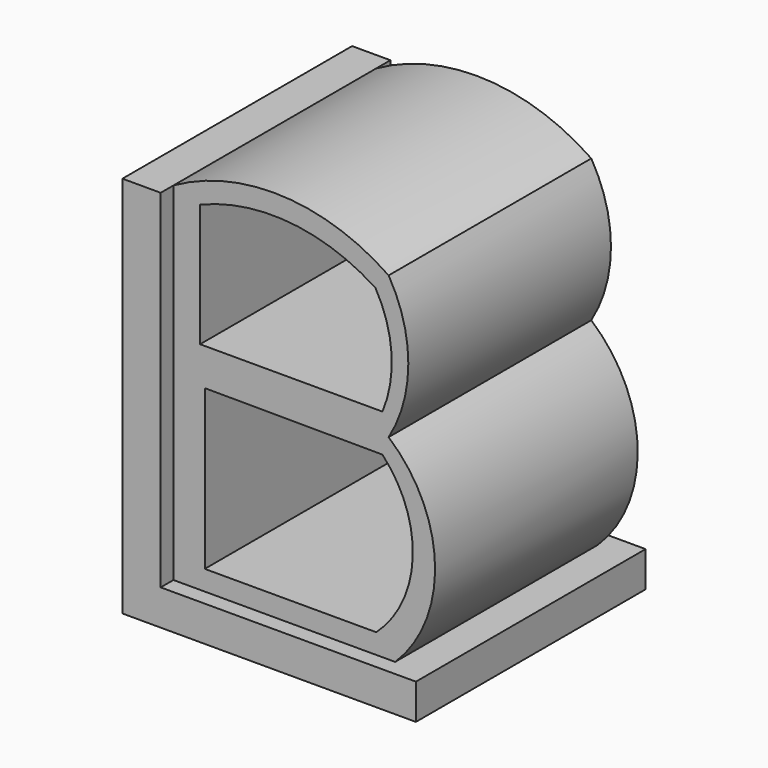
from build123d import *

# Parameters (mm, degrees)
F0_W     = 114.3
F0_H     = 152.4
F1_DEPTH = 15.24
F2_W     = 101.6
F2_H     = 14.1132464528
F3_DEPTH = 57.15
F4_DEPTH = 57.15
F6_DEPTH = 50.8
F7_DEPTH = 100.838


with BuildPart() as f1:
    # F0 (on Right) → F1 (new body)
    with BuildSketch(Plane.YZ):
        Rectangle(F0_W, F0_H)
    extrude(amount=F1_DEPTH)

    # F2 (on Front) → F3 (join)
    with BuildSketch(Plane.XZ):
        with Locations((66.04, -69.1433767736)):
            Rectangle(F2_W, F2_H)
    extrude(amount=F3_DEPTH)

    # F2 (on Front) → F4 (join)
    with BuildSketch(Plane.XZ):
        with Locations((66.04, -69.1433767736)):
            Rectangle(F2_W, F2_H)
    extrude(amount=-F4_DEPTH)

    # F5 (on Front) → F6 (join)
    with BuildSketch(Plane.XZ):
        with BuildLine():
            ThreePointArc((100.9056121111, 15.8293191344), (108.7441404523, 44.1781850532), (100.9056121111, 72.527050972))
            ThreePointArc((100.9056121111, 72.527050972), (58.597203119, 86.5942412093), (15.24, 76.2))
            Line((15.24, 76.2), (15.24, -62.0867535472))
            Line((15.24, -62.0867535472), (103.4958660603, -62.0867535472))
            ThreePointArc((103.4958660603, -62.0867535472), (119.3690519034, -22.5579711646), (100.9056121111, 15.8293191344))
        make_face()
        with BuildLine():
            Line((27.7020576755, -54.1285201907), (27.7020576755, 9.2299426906))
            Line((27.7020576755, 9.2299426906), (98.4420868913, 8.9223771356))
            ThreePointArc((98.4420868913, 8.9223771356), (110.4971458699, -23.121521712), (95.9815699021, -54.1285201907))
            Line((95.9815699021, -54.1285201907), (27.7020576755, -54.1285201907))
        make_face(mode=Mode.SUBTRACT)
        with BuildLine():
            ThreePointArc((95.6577137113, 66.4370954037), (102.0499654522, 45.5430957208), (98.4420868913, 23.9930767566))
            Line((98.4420868913, 23.9930767566), (25.8403848857, 23.9930767566))
            Line((25.8403848857, 23.9930767566), (25.8403848857, 72.8959664702))
            ThreePointArc((25.8403848857, 72.8959664702), (61.5459883334, 78.2810634281), (95.6577137113, 66.4370954037))
        make_face(mode=Mode.SUBTRACT)
    extrude(amount=F6_DEPTH)

    # F7 (add): a face of the model
    f7_faces = [f1.faces().sort_by_distance(p)[0] for p in [
        (106.9281796112, -50.8, 44.1781850532),
    ]]
    extrude(f7_faces, amount=-F7_DEPTH)


solid = f1.part
